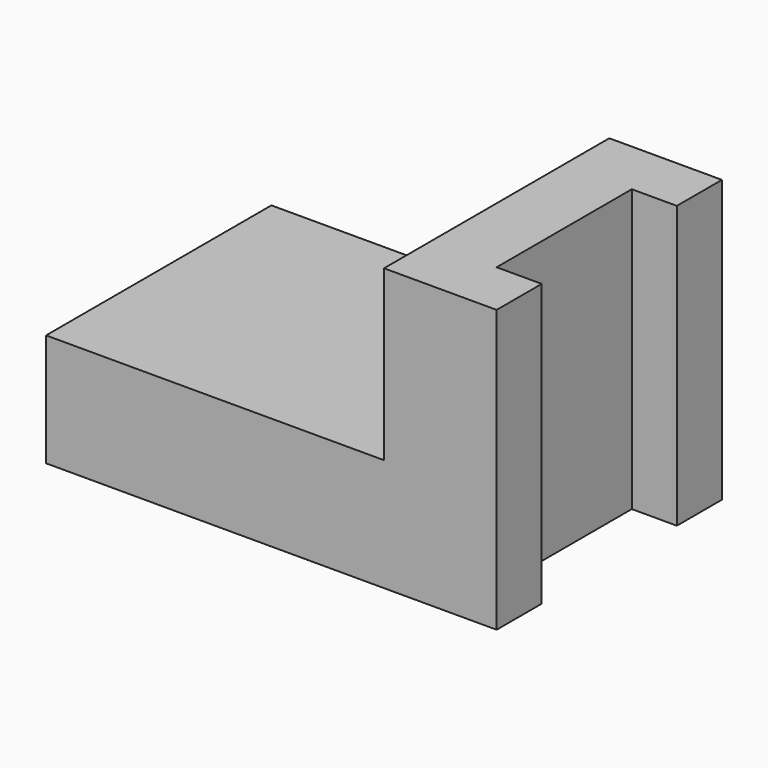
from build123d import *

# Parameters (mm, degrees)
F1_DEPTH = 50
F2_W     = 8
F2_H     = 30
F3_DEPTH = 57.2


with BuildPart() as f1:
    # F0 (on Front) → F1 (new body)
    with BuildSketch(Plane.XZ):
        Polygon((11.742455, -7.902282), (-48.257545, -7.902282), (-48.257545, -27.902282), (31.742455, -27.902282), (31.742455, 22.097718), (11.742455, 22.097718), align=None)
    extrude(amount=F1_DEPTH)

    # F2 (on face) → F3 (cut)
    with BuildSketch(Plane.XY.offset(22.097718)):
        with Locations((27.742455, -25)):
            Rectangle(F2_W, F2_H)
    extrude(amount=-F3_DEPTH, mode=Mode.SUBTRACT)


solid = f1.part
